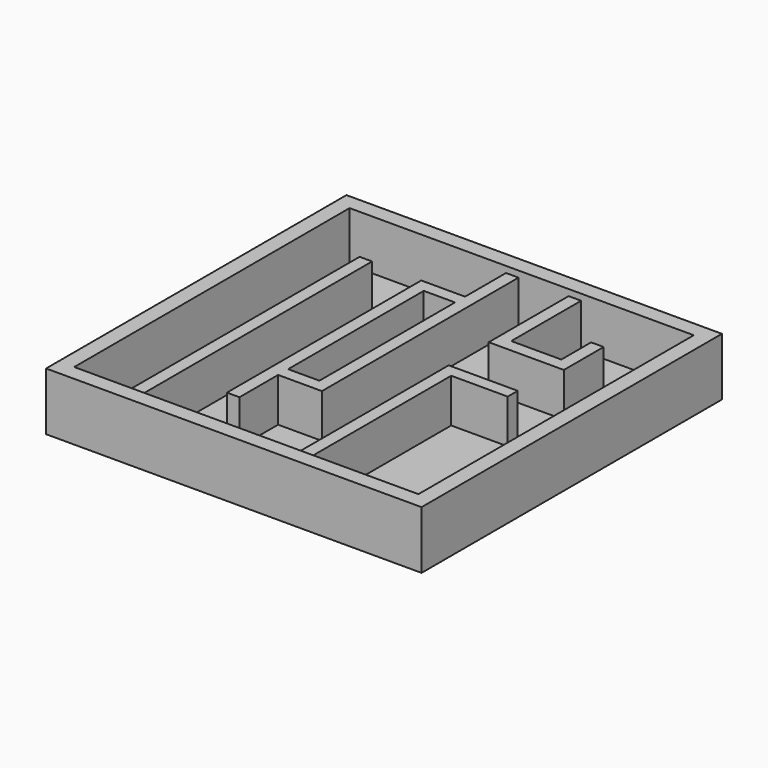
from build123d import *

# Parameters (mm, degrees)
F0_W     = 38.1
F0_H     = 38.1
F1_DEPTH = 0.79375
F2_W     = 38.1
F2_H     = 38.1
F2_W_2   = 34.925
F2_H_2   = 34.925
F3_DEPTH = 5.08
F4_R     = 1.27
F5_DEPTH = 0.396875
F4_W     = 1.27
F4_H     = 29.845
F4_W_2   = 3.175
F4_H_2   = 17.203249
F6_DEPTH = 4.445


with BuildPart() as f1:
    # F0 (on Top) → F1 (new body)
    with BuildSketch(Plane.XY):
        with Locations((-1.697784, 5.910519)):
            Rectangle(F0_W, F0_H)
    extrude(amount=F1_DEPTH)

    # F2 (on face) → F3 (join)
    with BuildSketch(Plane.XY.offset(0.79375)):
        with Locations((-1.697784, 5.910519)):
            Rectangle(F2_W, F2_H)
        with Locations((-1.697784, 5.910519)):
            Rectangle(F2_W_2, F2_H_2, mode=Mode.SUBTRACT)
    extrude(amount=F3_DEPTH)

    # F4 (on face) → F5 (cut)
    with BuildSketch(Plane.XY.offset(0.79375)):
        with Locations((-16.620284, -5.438046)):
            Circle(F4_R)
        with Locations((6.874716, 17.319087)):
            Circle(F4_R)
    extrude(amount=-F5_DEPTH, mode=Mode.SUBTRACT)

    # F4 (on face) → F6 (join)
    with BuildSketch(Plane.XY.offset(0.79375)):
        with Locations((-13.445284, 3.370519)):
            Rectangle(F4_W, F4_H)
        Polygon((-2.015284, 23.373019), (-3.285284, 23.373019), (-3.285284, 18.175395), (-6.460284, 18.175395), (-7.730284, 18.175395), (-7.730284, -6.471981), (-6.460284, -6.471981), (-6.460284, -1.567854), (-3.285284, -1.567854), (-2.015284, -1.567854), (-2.015284, 16.905395), (-2.015284, 18.175395), align=None)
        with Locations((-4.872784, 8.30377)):
            Rectangle(F4_W_2, F4_H_2, mode=Mode.SUBTRACT)
        Polygon((3.064716, 8.161802), (3.064716, -11.551981), (4.334716, -11.551981), (4.334716, 6.891802), (10.071768, 6.891802), (10.071768, 8.161802), (4.334716, 8.161802), align=None)
        Polygon((3.386088, 23.373019), (3.064716, 23.373019), (3.064716, 13.241802), (4.334716, 13.241802), (10.684716, 13.241802), (10.684716, 14.511802), (10.684716, 18.293019), (9.414716, 18.293019), (9.414716, 14.511802), (4.334716, 14.511802), (4.334716, 23.373019), align=None)
    extrude(amount=F6_DEPTH)


solid = f1.part
